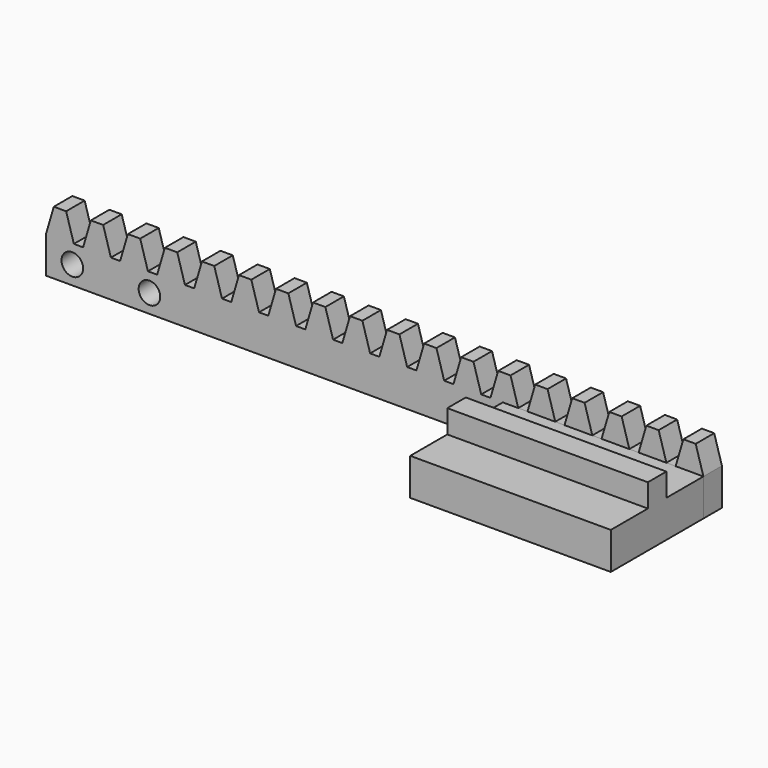
from build123d import *

# Parameters (mm, degrees)
F1_DEPTH = 3.81
F2_R     = 1.778
F3_DEPTH = 3.81
F6_DEPTH = 33.02


with BuildPart() as f1:
    # F0 (on Front) → F1 (new body)
    with BuildSketch(Plane.XZ):
        Polygon((-38.4448663006, 16.8945933835), (-38.4448663006, 10.7985933835), (69.7591336994, 10.7985933835), (69.7591336994, 16.8945933835), (65.1871336994, 16.8945933835), (63.6631336994, 16.8945933835), (59.0911336994, 16.8945933835), (57.5671336994, 16.8945933835), (52.9951336994, 16.8945933835), (51.4711336994, 16.8945933835), (46.8991336994, 16.8945933835), (45.3751336994, 16.8945933835), (40.8031336994, 16.8945933835), (39.2791336994, 16.8945933835), (34.7071336994, 16.8945933835), (33.1831336994, 16.8945933835), (28.6111336994, 16.8945933835), (27.0871336994, 16.8945933835), (22.5151336994, 16.8945933835), (20.9911336994, 16.8945933835), (16.4191336994, 16.8945933835), (14.8951336994, 16.8945933835), (10.3231336994, 16.8945933835), (8.7991336994, 16.8945933835), (4.2271336994, 16.8945933835), (2.7031336994, 16.8945933835), (-1.8688663006, 16.8945933835), (-3.3928663006, 16.8945933835), (-7.9648663006, 16.8945933835), (-9.4888663006, 16.8945933835), (-14.0608663006, 16.8945933835), (-15.5848663006, 16.8945933835), (-20.1568663006, 16.8945933835), (-21.6808663006, 16.8945933835), (-26.2528663006, 16.8945933835), (-27.7768663006, 16.8945933835), (-32.3488663006, 16.8945933835), (-33.8728663006, 16.8945933835), align=None)
        Polygon((-37.1748663006, 21.2125933835), (-38.4448663006, 16.8945933835), (-33.8728663006, 16.8945933835), (-35.1428663006, 21.2125933835), align=None)
        Polygon((65.1871336994, 16.8945933835), (69.7591336994, 16.8945933835), (68.4891336994, 21.2125933835), (66.4571336994, 21.2125933835), align=None)
        Polygon((-31.0788663006, 21.2125933835), (-32.3488663006, 16.8945933835), (-27.7768663006, 16.8945933835), (-29.0468663006, 21.2125933835), align=None)
        Polygon((59.0911336994, 16.8945933835), (63.6631336994, 16.8945933835), (62.3931336994, 21.2125933835), (60.3611336994, 21.2125933835), align=None)
        Polygon((-24.9828663006, 21.2125933835), (-26.2528663006, 16.8945933835), (-21.6808663006, 16.8945933835), (-22.9508663006, 21.2125933835), align=None)
        Polygon((52.9951336994, 16.8945933835), (57.5671336994, 16.8945933835), (56.2971336994, 21.2125933835), (54.2651336994, 21.2125933835), align=None)
        Polygon((-18.8868663006, 21.2125933835), (-20.1568663006, 16.8945933835), (-15.5848663006, 16.8945933835), (-16.8548663006, 21.2125933835), align=None)
        Polygon((46.8991336994, 16.8945933835), (51.4711336994, 16.8945933835), (50.2011336994, 21.2125933835), (48.1691336994, 21.2125933835), align=None)
        Polygon((-12.7908663006, 21.2125933835), (-14.0608663006, 16.8945933835), (-9.4888663006, 16.8945933835), (-10.7588663006, 21.2125933835), align=None)
        Polygon((40.8031336994, 16.8945933835), (45.3751336994, 16.8945933835), (44.1051336994, 21.2125933835), (42.0731336994, 21.2125933835), align=None)
        Polygon((-6.6948663006, 21.2125933835), (-7.9648663006, 16.8945933835), (-3.3928663006, 16.8945933835), (-4.6628663006, 21.2125933835), align=None)
        Polygon((34.7071336994, 16.8945933835), (39.2791336994, 16.8945933835), (38.0091336994, 21.2125933835), (35.9771336994, 21.2125933835), align=None)
        Polygon((-0.5988663006, 21.2125933835), (-1.8688663006, 16.8945933835), (2.7031336994, 16.8945933835), (1.4331336994, 21.2125933835), align=None)
        Polygon((28.6111336994, 16.8945933835), (33.1831336994, 16.8945933835), (31.9131336994, 21.2125933835), (29.8811336994, 21.2125933835), align=None)
        Polygon((5.4971336994, 21.2125933835), (4.2271336994, 16.8945933835), (8.7991336994, 16.8945933835), (7.5291336994, 21.2125933835), align=None)
        Polygon((22.5151336994, 16.8945933835), (27.0871336994, 16.8945933835), (25.8171336994, 21.2125933835), (23.7851336994, 21.2125933835), align=None)
        Polygon((11.5931336994, 21.2125933835), (10.3231336994, 16.8945933835), (14.8951336994, 16.8945933835), (13.6251336994, 21.2125933835), align=None)
        Polygon((16.4191336994, 16.8945933835), (20.9911336994, 16.8945933835), (19.7211336994, 21.2125933835), (17.6891336994, 21.2125933835), align=None)
    extrude(amount=F1_DEPTH)

    # F2 (on face) → F3 (cut, through all)
    with BuildSketch(Plane(origin=(0, 0, 0), x_dir=(-1, 0, 0), z_dir=(0, 1, 0))):
        with Locations((-52.7411336994, 13.8465933835)):
            Circle(F2_R)
        with Locations((-65.4411336994, 13.8465933835)):
            Circle(F2_R)
        with Locations((21.4268663006, 13.8465933835)):
            Circle(F2_R)
        with Locations((34.1268663006, 13.8465933835)):
            Circle(F2_R)
    extrude(amount=-F3_DEPTH, mode=Mode.SUBTRACT)


with BuildPart() as f6:
    # F5 (on plane+point) → F6 (new body)
    with BuildSketch(Plane.YZ.offset(69.7591336994)):
        Polygon((-22.86, 10.7985933835), (-3.81, 10.7985933835), (-3.81, 16.8945933835), (-11.43, 16.8945933835), (-11.43, 20.7045933835), (-15.24, 20.7045933835), (-15.24, 16.8945933835), (-22.86, 16.8945933835), align=None)
    extrude(amount=-F6_DEPTH)


solid = Compound([f1.part, f6.part])
